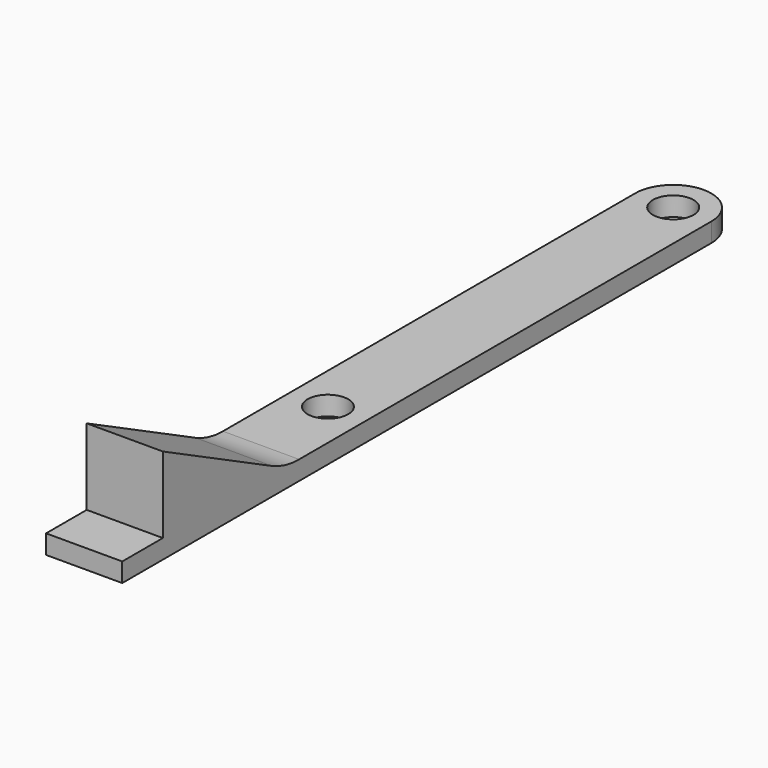
from build123d import *

# Parameters (mm, degrees)
SKETCH_R     = 1.6
PAD_DEPTH    = 1.5
PAD001_DEPTH = 6
FILLET_R     = 6


with BuildPart() as part:
    # Sketch → Pad (new body)
    with BuildSketch(Plane.XY):
        with BuildLine():
            ThreePointArc((3, 16.999999), (-7e-06, 20), (-3, 16.999986))
            Line((-3, 16.999986), (-3, -37))
            Line((-3, -37), (-3, -41))
            Line((-3, -41), (3, -41))
            Line((3, -41), (3, -36.999987))
            Line((3, -36.999987), (3, 16.999999))
        make_face()
        with Locations((0, 17)):
            Circle(SKETCH_R, mode=Mode.SUBTRACT)
        with Locations((0, -17)):
            Circle(SKETCH_R, mode=Mode.SUBTRACT)
    extrude(amount=PAD_DEPTH)

    # Sketch001 → Pad001 (new body)
    with BuildSketch(Plane(origin=(-3, 0, 0), x_dir=(0, -1, 0), z_dir=(-1, 0, 0))):
        Polygon((37, 0), (37, 7.5), (22, 0), align=None)
    extrude(amount=-PAD001_DEPTH)

    # Fillet
    fillet_edges = [part.edges().sort_by_distance(p)[0] for p in [
        (0, -25, 1.5),
    ]]
    fillet(fillet_edges, radius=FILLET_R)


solid = part.part
